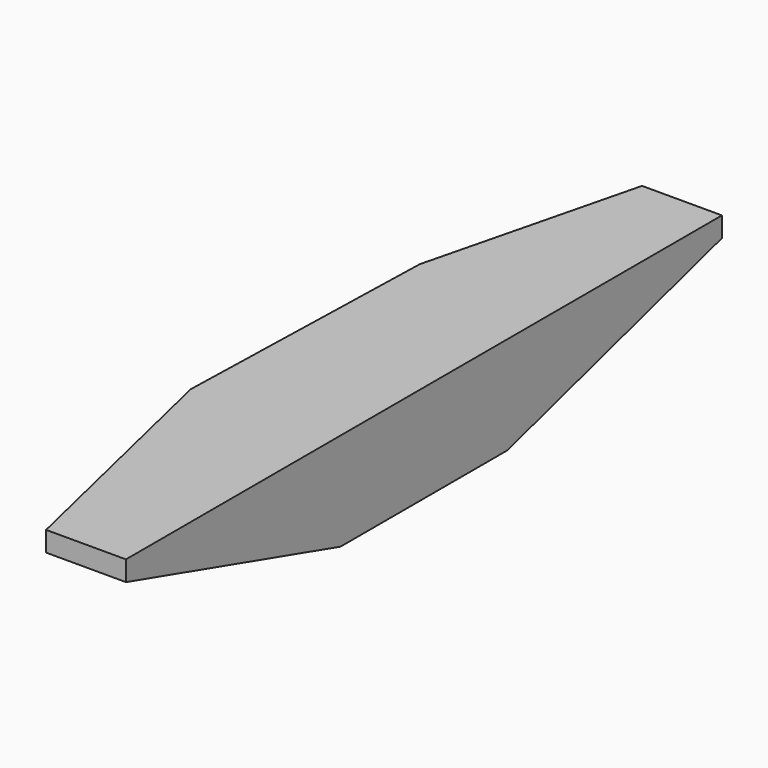
from build123d import *

# Parameters (mm, degrees)
F0_W      = 306.0099184513
F0_H      = 128.4345835447
F1_DEPTH  = 977.9
F3_DEPTH  = 508
F5_DEPTH  = 1577.34
F6_W      = 96.3038355112
F6_H      = 26.3143703341
F7_DEPTH  = 2032
F9_DEPTH  = 2032
F11_DEPTH = 2032


with BuildPart() as f1:
    # F0 (on Front) → F1 (new body)
    with BuildSketch(Plane.XZ):
        with Locations((-153.0049592257, 64.2172917724)):
            Rectangle(F0_W, F0_H)
    extrude(amount=F1_DEPTH)

    # F2 (on face) → F3 (cut)
    with BuildSketch(Plane.YZ):
        Polygon((-625.8537769318, 0), (-977.9, 102.1202132106), (-977.9, 0), align=None)
        Polygon((-352.044, 0), (0, 0), (0, 102.1202132106), align=None)
    extrude(amount=-F3_DEPTH, mode=Mode.SUBTRACT)

    # F4 (on face) → F5 (cut)
    with BuildSketch(Plane.XZ.offset(977.9)):
        Polygon((-136.761367321, 0), (-306.0099184513, 102.1202132106), (-306.0099184513, 0), align=None)
    extrude(amount=-F5_DEPTH, mode=Mode.SUBTRACT)

    # F6 (on face) → F7 (cut)
    with BuildSketch(Plane(origin=(0, 0, 0), x_dir=(-1, 0, 0), z_dir=(0, 1, 0))):
        with Locations((257.8580006957, 115.2773983777)):
            Rectangle(F6_W, F6_H)
    extrude(amount=-F7_DEPTH, mode=Mode.SUBTRACT)

    # F8 (on face) → F9 (cut)
    with BuildSketch(Plane.XY.offset(128.4345835447)):
        Polygon((-223.3109489244, -475.2492566424), (-104.8530414701, 0), (-310.773730278, 0), (-310.773730278, -104.1196882725), align=None)
        Polygon((-104.8530414701, -977.9), (-223.3109489244, -475.2492566424), (-310.773730278, -826.1470794678), (-310.773730278, -977.9), align=None)
        Polygon((-310.773730278, -826.1470794678), (-223.3109489244, -475.2492566424), (-310.773730278, -104.1196882725), align=None)
    extrude(amount=-F9_DEPTH, mode=Mode.SUBTRACT)

    # F10 (on face) → F11 (cut)
    with BuildSketch(Plane.XY.offset(128.4345835447)):
        Polygon((-184.1263636062, -641.520646722), (-174.1903899803, -278.1791781165), (-476.8389761448, -662.8549098969), align=None)
    extrude(amount=-F11_DEPTH, mode=Mode.SUBTRACT)


solid = f1.part
